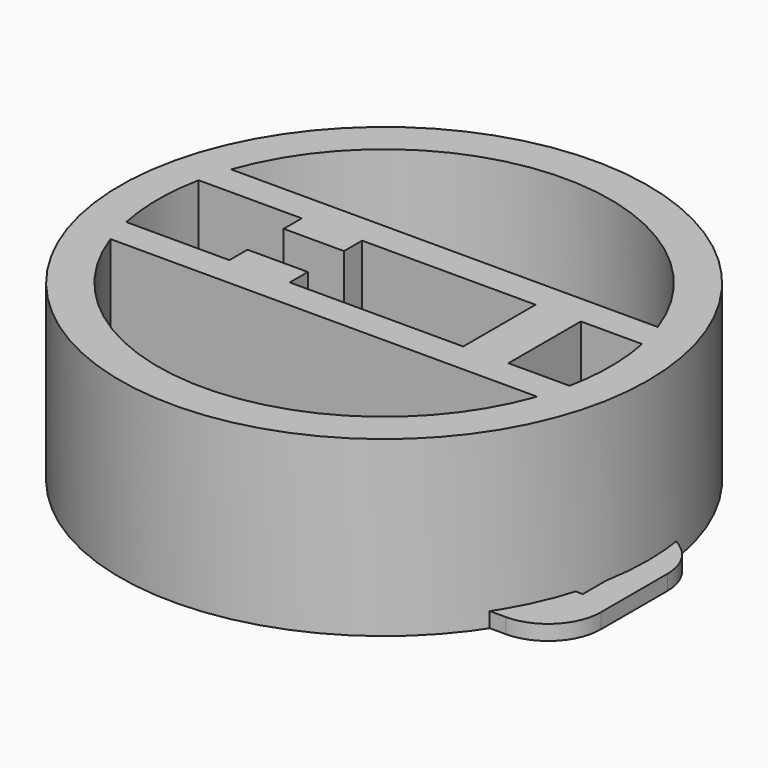
from build123d import *

# Parameters (mm, degrees)
F1_DEPTH = 2
F2_R     = 35
F3_DEPTH = 23


with BuildPart() as f1:
    # F0 (on Top) → F1 (new body)
    with BuildSketch(Plane.XY):
        with BuildLine():
            ThreePointArc((15.99342, -10.110435), (12.579206, -8.696222), (13.99342, -12.110435))
            ThreePointArc((13.99342, -12.110435), (15.407633, -11.524649), (15.99342, -10.110435))
        make_face()
        with BuildLine():
            ThreePointArc((15.99342, 8.889565), (15.407633, 10.303778), (13.99342, 10.889565))
            ThreePointArc((13.99342, 10.889565), (12.579206, 7.475351), (15.99342, 8.889565))
        make_face()
        with BuildLine():
            Line((13.99342, 11.889565), (4.49342, 11.889565))
            ThreePointArc((4.49342, 11.889565), (-0.456328, 9.839312), (-2.50658, 4.889565))
            Line((-2.50658, 4.889565), (-2.50658, -6.110435))
            ThreePointArc((-2.50658, -6.110435), (-0.456328, -11.060183), (4.49342, -13.110435))
            Line((4.49342, -13.110435), (13.99342, -13.110435))
            Line((13.99342, -13.110435), (23.49342, -13.110435))
            ThreePointArc((23.49342, -13.110435), (28.443167, -11.060183), (30.49342, -6.110435))
            Line((30.49342, -6.110435), (30.49342, 4.889565))
            ThreePointArc((30.49342, 4.889565), (28.443167, 9.839312), (23.49342, 11.889565))
            Line((23.49342, 11.889565), (13.99342, 11.889565))
        make_face()
        with BuildLine():
            ThreePointArc((15.99342, -10.110435), (15.407633, -11.524649), (13.99342, -12.110435))
            ThreePointArc((13.99342, -12.110435), (12.579206, -8.696222), (15.99342, -10.110435))
        make_face(mode=Mode.SUBTRACT)
        Polygon((2.49342, -7.110435), (2.49342, 4.889565), (24.49342, 4.889565), (24.49342, 1.889565), (26.49342, 1.889565), (26.49342, -4.110435), (24.49342, -4.110435), (24.49342, -7.110435), align=None, mode=Mode.SUBTRACT)
        with BuildLine():
            ThreePointArc((15.99342, 8.889565), (12.579206, 7.475351), (13.99342, 10.889565))
            ThreePointArc((13.99342, 10.889565), (15.407633, 10.303778), (15.99342, 8.889565))
        make_face(mode=Mode.SUBTRACT)
    extrude(amount=F1_DEPTH)


with BuildPart() as f3:
    # F2 (on Top) → F3 (new body)
    with BuildSketch(Plane.XY):
        with Locations((-7.945243, 6)):
            Circle(F2_R)
        with BuildLine():
            ThreePointArc((20.339028, -4), (-7.945243, -24), (-36.229515, -4))
            Line((-36.229515, -4), (20.339028, -4))
        make_face(mode=Mode.SUBTRACT)
        with BuildLine():
            ThreePointArc((-37.33912, 0), (-37.945243, 6), (-37.33912, 12))
            Line((-37.33912, 12), (-23.660972, 12))
            Line((-23.660972, 12), (-23.660972, 9))
            Line((-23.660972, 9), (-15.660972, 9))
            Line((-15.660972, 9), (-15.660972, 12))
            Line((-15.660972, 12), (7.339028, 12))
            Line((7.339028, 12), (7.339028, 0))
            Line((7.339028, 0), (-15.660972, 0))
            Line((-15.660972, 0), (-15.660972, 3))
            Line((-15.660972, 3), (-23.660972, 3))
            Line((-23.660972, 3), (-23.660972, 0))
            Line((-23.660972, 0), (-37.33912, 0))
        make_face(mode=Mode.SUBTRACT)
        with BuildLine():
            Line((21.448634, 0), (20.339028, 0))
            Line((20.339028, 0), (13.339028, 0))
            Line((13.339028, 0), (13.339028, 12))
            Line((13.339028, 12), (20.339028, 12))
            Line((20.339028, 12), (21.448634, 12))
            ThreePointArc((21.448634, 12), (22.054757, 6), (21.448634, 0))
        make_face(mode=Mode.SUBTRACT)
        with BuildLine():
            Line((20.339028, 16), (-36.229515, 16))
            ThreePointArc((-36.229515, 16), (-7.945243, 36), (20.339028, 16))
        make_face(mode=Mode.SUBTRACT)
    extrude(amount=F3_DEPTH)


solid = Compound([f1.part, f3.part])
